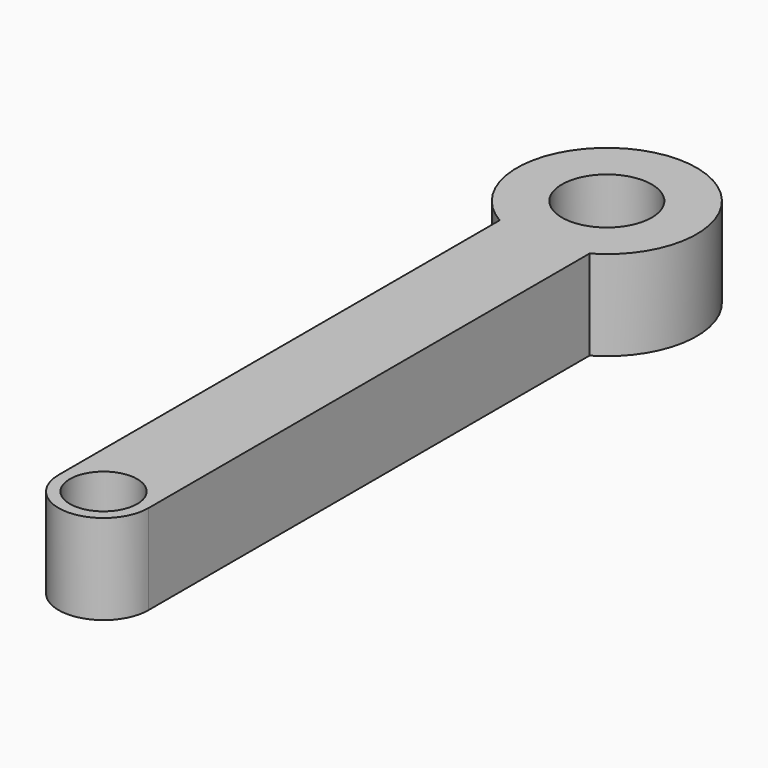
from build123d import *

# Parameters (mm, degrees)
F0_R     = 9.525
F1_DEPTH = 25.4
F2_R     = 25.4
F3_DEPTH = 25.4
F4_R     = 12.7
F5_DEPTH = 25.4


with BuildPart() as f1:
    # F0 (on Top) → F1 (new body)
    with BuildSketch(Plane.XY):
        with BuildLine():
            ThreePointArc((-12.7, 0), (0, -12.7), (12.7, 0))
            ThreePointArc((12.7, 0), (0, 12.7), (-12.7, 0))
        make_face()
        Circle(F0_R, mode=Mode.SUBTRACT)
        with BuildLine():
            ThreePointArc((-12.7, 0), (0, 12.7), (12.7, 0))
            Line((12.7, 0), (12.7, 177.8))
            Line((12.7, 177.8), (-12.7, 177.8))
            Line((-12.7, 177.8), (-12.7, 0))
        make_face()
    extrude(amount=F1_DEPTH)

    # F2 (on face) → F3 (join)
    with BuildSketch(Plane.XY.offset(25.4)):
        with Locations((0, 177.8)):
            Circle(F2_R)
    extrude(amount=-F3_DEPTH)

    # F4 (on face) → F5 (cut)
    with BuildSketch(Plane.XY.offset(25.4)):
        with Locations((0, 177.8)):
            Circle(F4_R)
    extrude(amount=-F5_DEPTH, mode=Mode.SUBTRACT)


solid = f1.part
